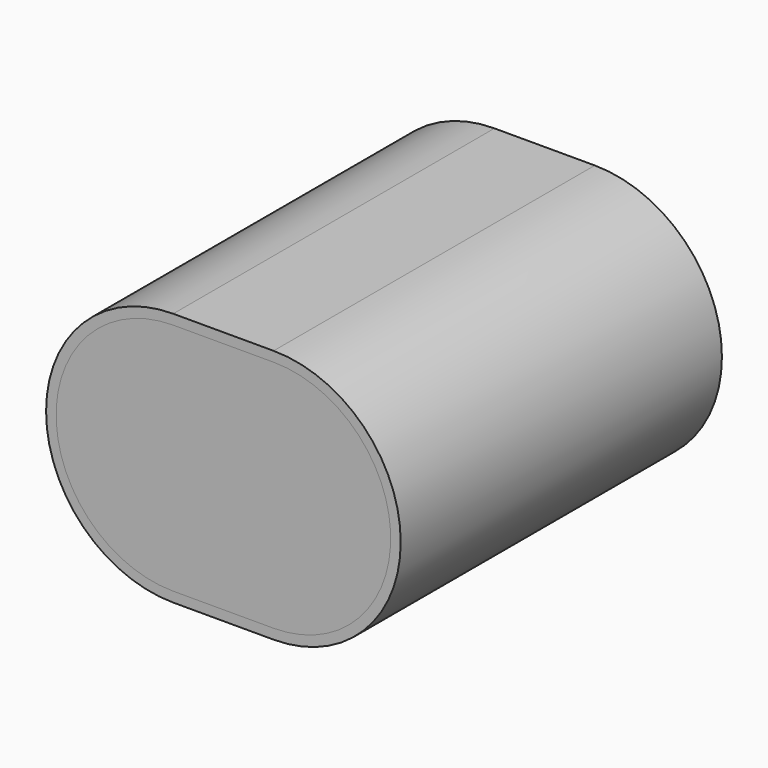
from build123d import *

# Parameters (mm, degrees)
F2_DEPTH = 600


with BuildPart() as f2:
    # F1 (on face) → F2 (new body)
    with BuildSketch(Plane.XZ):
        with BuildLine():
            Line((75, 190), (-75, 190))
            ThreePointArc((-75, 190), (-265, 0), (-75, -190))
            Line((-75, -190), (75, -190))
            ThreePointArc((75, -190), (265, 0), (75, 190))
        make_face()
        with BuildLine():
            ThreePointArc((-75, -175), (-250, 0), (-75, 175))
            Line((-75, 175), (75, 175))
            ThreePointArc((75, 175), (250, 0), (75, -175))
            Line((75, -175), (-75, -175))
        make_face(mode=Mode.SUBTRACT)
        with BuildLine():
            Line((75, 175), (-75, 175))
            ThreePointArc((-75, 175), (-250, 0), (-75, -175))
            Line((-75, -175), (75, -175))
            ThreePointArc((75, -175), (250, 0), (75, 175))
        make_face()
    extrude(amount=-F2_DEPTH)


with BuildPart() as f2b:
    # F0 (on Front) → F2, piece 2 (new body)
    with BuildSketch(Plane.XZ):
        with BuildLine():
            ThreePointArc((-75, 175), (-250, 0), (-75, -175))
            Line((-75, -175), (75, -175))
            ThreePointArc((75, -175), (250, 0), (75, 175))
            Line((75, 175), (-75, 175))
        make_face()
    extrude(amount=-F2_DEPTH)


solid = Compound([f2.part, f2b.part])
